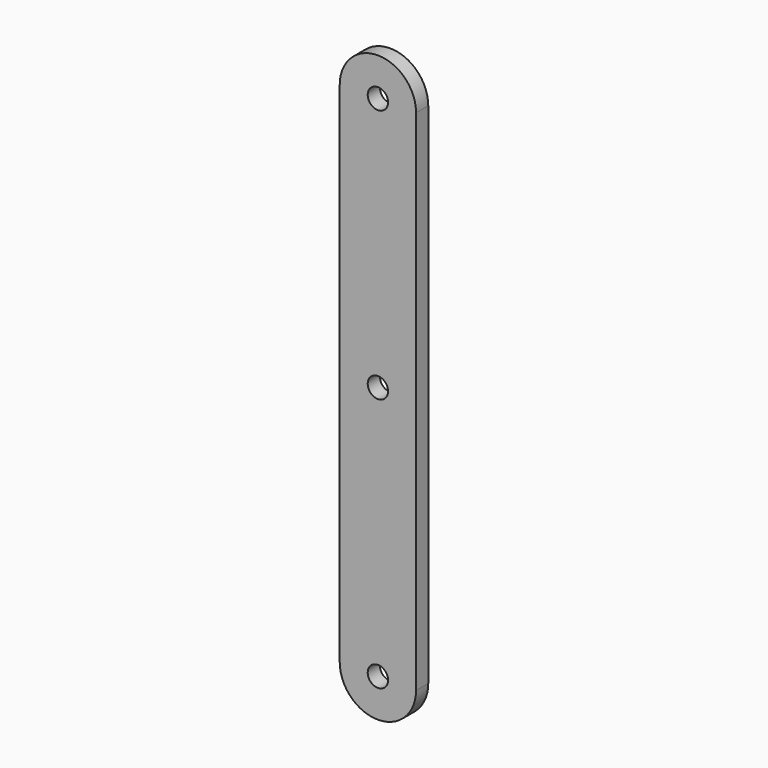
from build123d import *

# Parameters (mm, degrees)
F0_R     = 4
F1_DEPTH = 6


with BuildPart() as f1:
    # F0 (on Front) → F1 (new body)
    with BuildSketch(Plane.XZ):
        with BuildLine():
            ThreePointArc((30, 200), (15, 215), (0, 200))
            Line((0, 200), (0, 0))
            ThreePointArc((0, 0), (15, -15), (30, 0))
            Line((30, 0), (30, 200))
        make_face()
        with Locations((15, 0)):
            Circle(F0_R, mode=Mode.SUBTRACT)
        with Locations((15, 100)):
            Circle(F0_R, mode=Mode.SUBTRACT)
        with Locations((15, 200)):
            Circle(F0_R, mode=Mode.SUBTRACT)
    extrude(amount=F1_DEPTH)


solid = f1.part
